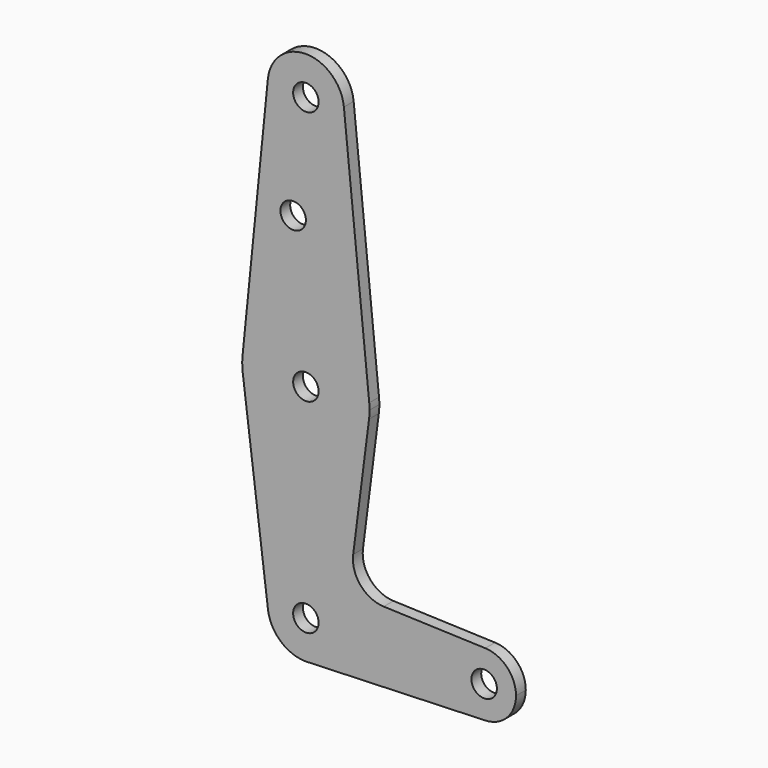
from build123d import *

# Parameters (mm, degrees)
F0_R     = 3.175
F1_DEPTH = 3.048


with BuildPart() as f1:
    # F0 (on Front) → F1 (new body)
    with BuildSketch(Plane.XZ):
        with BuildLine():
            ThreePointArc((0.6773435479, -48.9797513534), (6.9705567315, -45.9701646557), (9.525, -39.4788655675))
            ThreePointArc((9.525, -39.4788655675), (-0.596483242, -29.9725606732), (-9.4502929642, -40.6694905675))
            ThreePointArc((-9.4502929642, -40.6694905675), (-6.3001953095, -46.6226155675), (0, -49.0038655675))
            Line((0, -49.0038655675), (0.6773435479, -48.9797513534))
        make_face()
        with Locations((0, -39.4788655675)):
            Circle(F0_R, mode=Mode.SUBTRACT)
        with BuildLine():
            ThreePointArc((-9.4502929642, -40.6694905675), (-0.596483242, -29.9725606732), (9.525, -39.4788655675))
            Line((9.525, -39.4788655675), (36.5125, -39.4788655675))
            ThreePointArc((36.5125, -39.4788655675), (38.9380895153, -33.7672327835), (44.7324052746, -31.5463909529))
            Line((44.7324052746, -31.5463909529), (19.3966563415, -30.6444089761))
            ThreePointArc((19.3966563415, -30.6444089761), (13.6203367372, -27.846285964), (11.7931870466, -21.6934911055))
            Line((11.7931870466, -21.6934911055), (15.7474569047, 9.3128451022))
            ThreePointArc((15.7474569047, 9.3128451022), (-0.0120528461, -4.553860992), (-15.7504882737, 9.3367594325))
            Line((-15.7504882737, 9.3367594325), (-9.4502929642, -40.6694905675))
        make_face()
        with BuildLine():
            Line((36.5125, -39.4788655675), (9.525, -39.4788655675))
            ThreePointArc((9.525, -39.4788655675), (6.9705567315, -45.9701646557), (0.6773435479, -48.9797513534))
            Line((0.6773435479, -48.9797513534), (44.7324052746, -47.411340182))
            ThreePointArc((44.7324052746, -47.411340182), (38.9380895153, -45.1904983514), (36.5125, -39.4788655675))
        make_face()
        with BuildLine():
            ThreePointArc((44.7324052746, -31.5463909529), (38.9380895153, -33.7672327835), (36.5125, -39.4788655675))
            ThreePointArc((36.5125, -39.4788655675), (38.9380895153, -45.1904983514), (44.7324052746, -47.411340182))
            ThreePointArc((44.7324052746, -47.411340182), (50.1616327839, -44.9907760522), (52.3875, -39.4788655675))
            ThreePointArc((52.3875, -39.4788655675), (50.1616327839, -33.9669550827), (44.7324052746, -31.5463909529))
        make_face()
        with BuildLine():
            ThreePointArc((47.625, -39.4788655675), (44.45, -42.6538655675), (41.275, -39.4788655675))
            ThreePointArc((41.275, -39.4788655675), (44.45, -36.3038655675), (47.625, -39.4788655675))
        make_face(mode=Mode.SUBTRACT)
        with BuildLine():
            ThreePointArc((0, -49.0038655675), (0.3388863295, -48.997835105), (0.6773435479, -48.9797513534))
            Line((0.6773435479, -48.9797513534), (0, -49.0038655675))
        make_face()
        with BuildLine():
            ThreePointArc((-15.7954255641, 12.9086344325), (-15.8737438155, 11.1214289458), (-15.7504882737, 9.3367594325))
            ThreePointArc((-15.7504882737, 9.3367594325), (-0.0120528461, -4.553860992), (15.7474569047, 9.3128451022))
            ThreePointArc((15.7474569047, 9.3128451022), (15.8430821396, 10.314966793), (15.875, 11.3211344325))
            ThreePointArc((15.875, 11.3211344325), (15.8550939106, 12.1158809866), (15.7954255641, 12.9086344325))
            ThreePointArc((15.7954255641, 12.9086344325), (0, 27.1961344325), (-15.7954255641, 12.9086344325))
        make_face()
        with Locations((0, 11.3211344325)):
            Circle(F0_R, mode=Mode.SUBTRACT)
        with BuildLine():
            Line((-9.4772553384, 75.7736344325), (-15.7954255641, 12.9086344325))
            ThreePointArc((-15.7954255641, 12.9086344325), (0, 27.1961344325), (15.7954255641, 12.9086344325))
            Line((15.7954255641, 12.9086344325), (9.4772553384, 75.7736344325))
            ThreePointArc((9.4772553384, 75.7736344325), (9.5130563464, 75.297982365), (9.525, 74.8211344325))
            ThreePointArc((9.525, 74.8211344325), (-0.4768479324, 65.3080780862), (-9.4772553384, 75.7736344325))
        make_face()
        with Locations((-3.175, 47.8463344325)):
            Circle(F0_R, mode=Mode.SUBTRACT)
        with BuildLine():
            ThreePointArc((9.4772553384, 75.7736344325), (0, 84.3461344325), (-9.4772553384, 75.7736344325))
            ThreePointArc((-9.4772553384, 75.7736344325), (-0.4768479324, 65.3080780862), (9.525, 74.8211344325))
            ThreePointArc((9.525, 74.8211344325), (9.5130563464, 75.297982365), (9.4772553384, 75.7736344325))
        make_face()
        with Locations((0, 74.8211344325)):
            Circle(F0_R, mode=Mode.SUBTRACT)
    extrude(amount=F1_DEPTH)


solid = f1.part
